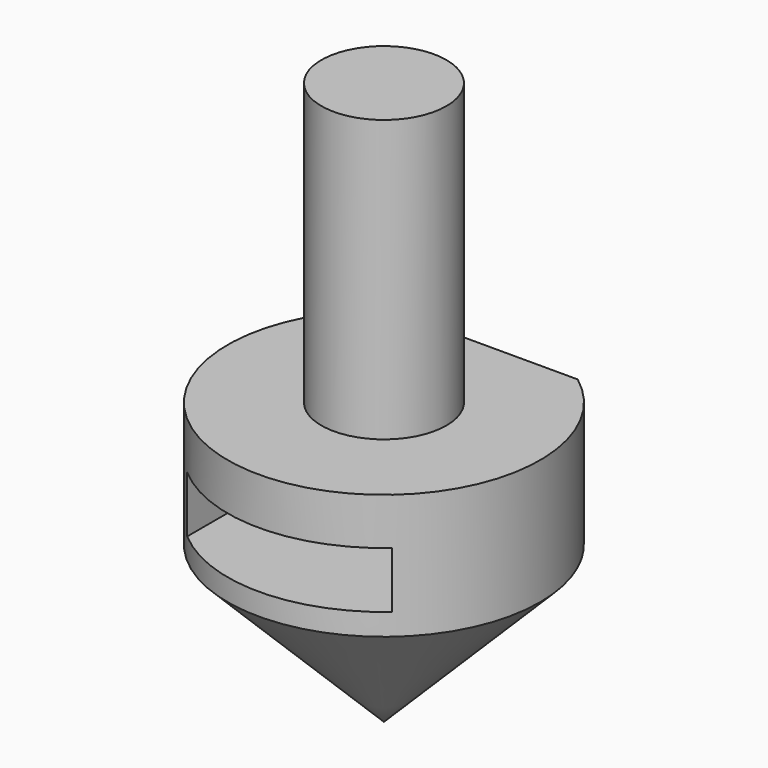
from build123d import *

# Parameters (mm, degrees)
SKETCH008_W     = 10
SKETCH008_H     = 1.5
POCKET004_DEPTH = 9.001
POCKET005_DEPTH = 1.8


with BuildPart() as part:
    # Sketch007 → Revolution001 (revolve)
    with BuildSketch(Plane.XZ):
        Polygon((0, 0), (0, -18), (5, -13), (5, -9), (2, -9), (2, 0), align=None)
    revolve(axis=Axis((0, 0, 0), (0, 0, 1)))

    # Sketch008 (on Face3 of Revolution001) → Pocket004 (cut, through all)
    with BuildSketch(Plane(origin=(0, 0, -9), x_dir=(-1, 0, 0), z_dir=(0, 0, 1))):
        with Locations((0, -4.75)):
            Rectangle(SKETCH008_W, SKETCH008_H)
    extrude(amount=-POCKET004_DEPTH, mode=Mode.SUBTRACT)

    # Sketch009 (on Face5 of Pocket004) → Pocket005 (cut)
    with BuildSketch(Plane(origin=(0, 0, -10.5), x_dir=(-1, 0, 0), z_dir=(0, 0, 1))):
        with BuildLine():
            ThreePointArc((-3.275, 0), (-2.64581, -1.930107), (-1, -3.118593))
            Line((-1, -3.118593), (-1, -6.5))
            Line((-1, -6.5), (1, -6.5))
            Line((1, -6.5), (1, -3.113342))
            ThreePointArc((1, -3.113342), (2.642243, -1.926512), (3.27, 0))
            Line((3.27, 6.5), (3.27, 0))
            Line((-3.275, 6.5), (3.27, 6.5))
            Line((-3.275, 0), (-3.275, 6.5))
        make_face()
    extrude(amount=-POCKET005_DEPTH, mode=Mode.SUBTRACT)


solid = part.part
